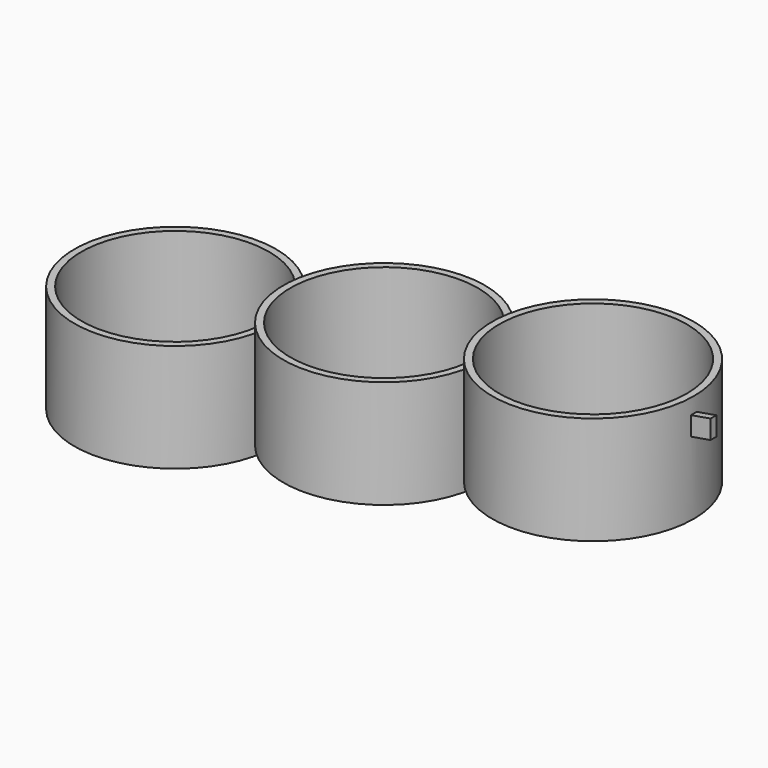
from build123d import *

# Parameters (mm, degrees)
F0_R          = 28
F0_R_2        = 26.05
F1_DEPTH      = 30
F2_START      = -10
F2_DEPTH      = 30
F3_START      = -20
F3_DEPTH      = 30
F5_DEPTH      = 1
F5_DEPTH_BACK = 1
F6_DEPTH      = 50
F7_DEPTH      = 150.7
F8_DEPTH      = 50


with BuildPart() as f1:
    # F0 (on Top) → F1 (new body)
    with BuildSketch(Plane.XY):
        with Locations((58, 0)):
            Circle(F0_R)
        with Locations((58, 0)):
            Circle(F0_R_2, mode=Mode.SUBTRACT)
        with Locations((58, 0)):
            Circle(F0_R_2)
    extrude(amount=-F1_DEPTH)



with BuildPart() as f2:
    # F0 (on Top) → F2 (new body)
    with BuildSketch(Plane.XY.offset(F2_START)):
        Circle(F0_R)
        Circle(F0_R_2, mode=Mode.SUBTRACT)
        Circle(F0_R_2)
    extrude(amount=-F2_DEPTH)


with BuildPart() as f3:
    # F0 (on Top) → F3 (new body)
    with BuildSketch(Plane.XY.offset(F3_START)):
        with Locations((-58, 0)):
            Circle(F0_R)
        with Locations((-58, 0)):
            Circle(F0_R_2, mode=Mode.SUBTRACT)
        with Locations((-58, 0)):
            Circle(F0_R_2)
    extrude(amount=-F3_DEPTH)


with BuildPart() as f1_1:
    add(f1.part)

    add(f2.part)  # F5 merges F2

    add(f3.part)  # F5 merges F3
    # F4 (on Front) → F5 (join, two sides)
    with BuildSketch(Plane.XZ) as f5_sk:
        Polygon((91.4459181696, -3.3011357271), (-90.1017620827, -34.3922948223), (-90.1017620827, -39.6512281582), (91.4459181696, -8.560069063), align=None)
    extrude(amount=F5_DEPTH)
    extrude(f5_sk.sketch, amount=-F5_DEPTH_BACK)

    # F0 (on Top) → F6 (cut)
    with BuildSketch(Plane.XY):
        with Locations((-58, 0)):
            Circle(F0_R_2)
    extrude(amount=-F6_DEPTH, mode=Mode.SUBTRACT)

    # F0 (on Top) → F7 (cut)
    with BuildSketch(Plane.XY):
        Circle(F0_R_2)
    extrude(amount=-F7_DEPTH, mode=Mode.SUBTRACT)

    # F0 (on Top) → F8 (cut)
    with BuildSketch(Plane.XY):
        with Locations((58, 0)):
            Circle(F0_R_2)
    extrude(amount=-F8_DEPTH, mode=Mode.SUBTRACT)


solid = f1_1.part
